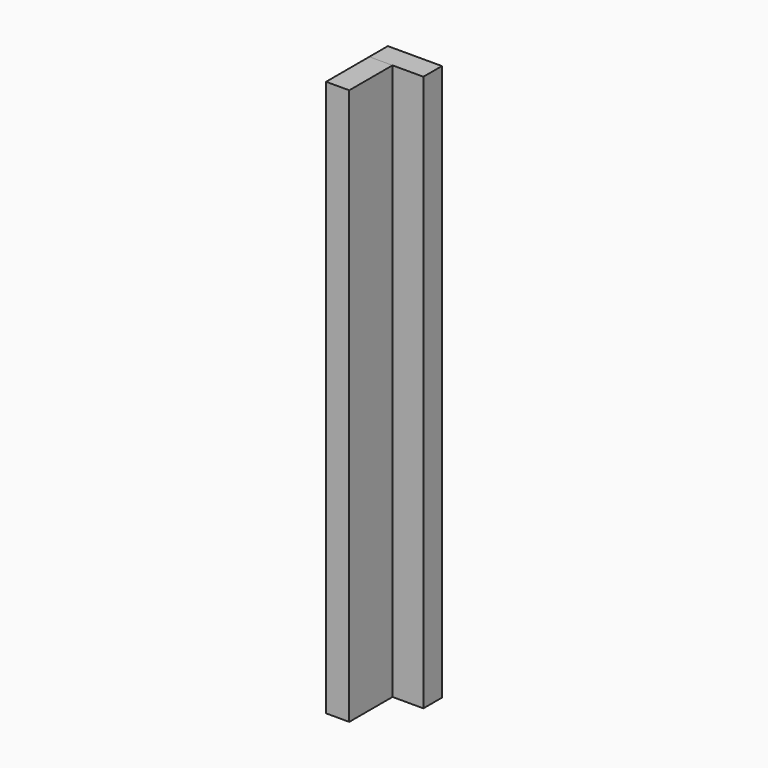
from build123d import *

# Parameters (mm, degrees)
F0_W     = 88.9
F0_H     = 38.1
F1_DEPTH = 914.4
F2_ANGLE = 90


with BuildPart() as f1:
    # F0 (on Top) → F1 (new body)
    with BuildSketch(Plane.XY):
        with Locations((44.45, 19.05)):
            Rectangle(F0_W, F0_H)
    extrude(amount=F1_DEPTH)


with BuildPart() as f2_1:
    # F2: copy of F1
    add(f1.part.rotate(Axis((0, 0, 457.2), (0, 0, -1)), F2_ANGLE))


solid = Compound([f1.part, f2_1.part])
